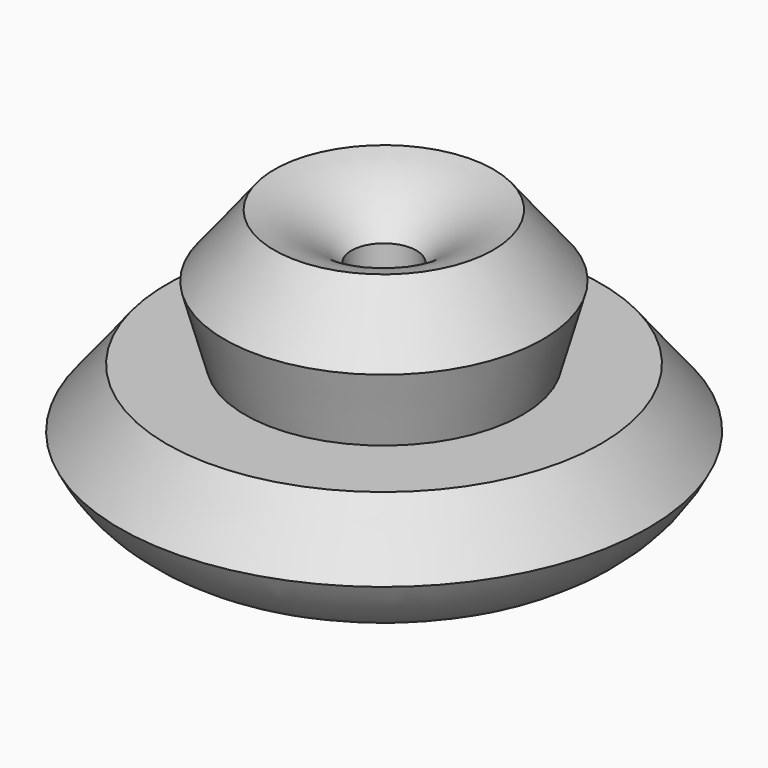
from build123d import *


with BuildPart() as f1:
    # F0 (on Front) → F1 (revolve)
    with BuildSketch(Plane.XZ):
        with BuildLine():
            Line((19.363788, 27.316456), (13.302453, 34.937789))
            ThreePointArc((13.302453, 34.937789), (8.135951, 32.884255), (3.914775, 29.266049))
            Line((3.914775, 29.266049), (3.948856, 7.517579))
            ThreePointArc((3.948856, 7.517579), (19.070867, 1.646298), (32.175929, 11.206869))
            Line((32.175929, 11.206869), (26.445522, 18.412104))
            Line((26.445522, 18.412104), (16.87957, 18.412104))
            Line((16.87957, 18.412104), (19.363788, 27.316456))
        make_face()
    revolve(axis=Axis((-0.029552, 0, 18.85881), (-0.001567, 0, 0.999999)))


solid = f1.part
